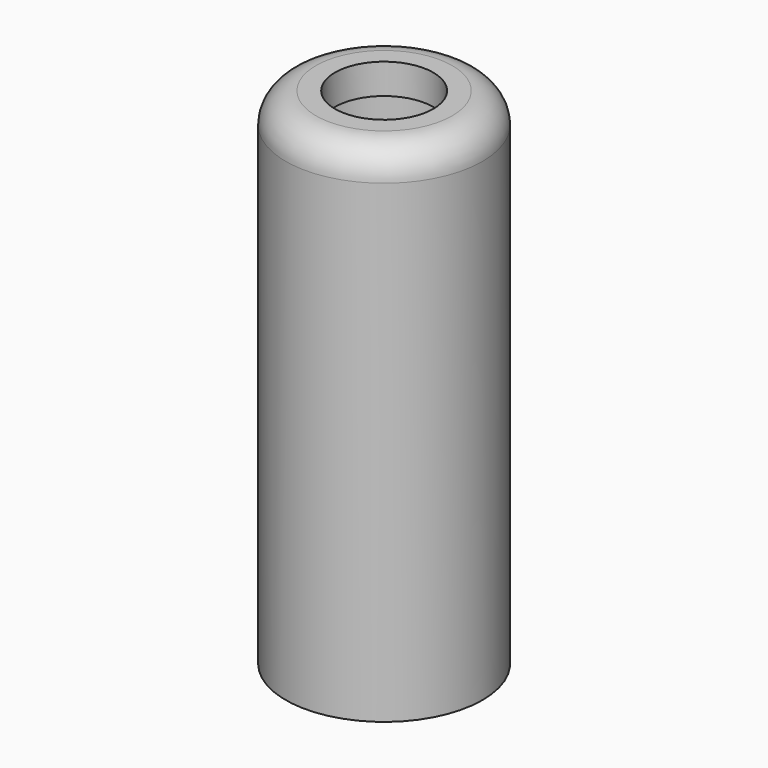
from build123d import *

# Parameters (mm, degrees)
F0_R     = 3.9
F0_R_2   = 2.7
F1_DEPTH = 20
F2_R     = 2.7
F2_R_2   = 1.95
F3_DEPTH = 1.2
F4_R     = 1.2
F5_R     = 3
F6_DEPTH = 0.8


with BuildPart() as f1:
    # F0 (on Top) → F1 (new body)
    with BuildSketch(Plane.XY):
        Circle(F0_R)
        Circle(F0_R_2, mode=Mode.SUBTRACT)
    extrude(amount=F1_DEPTH)

    # F2 (on face) → F3 (join)
    with BuildSketch(Plane.XY.offset(20)):
        Circle(F2_R)
        Circle(F2_R_2, mode=Mode.SUBTRACT)
    extrude(amount=-F3_DEPTH)

    # F4
    f4_edges = [f1.edges().sort_by_distance(p)[0] for p in [
        (-3.9, 0, 20),
    ]]
    fillet(f4_edges, radius=F4_R)

    # F5 (on face) → F6 (cut)
    with BuildSketch(Plane(origin=(0, 0, 0), x_dir=(1, 0, 0), z_dir=(0, 0, -1))):
        Circle(F5_R)
    extrude(amount=-F6_DEPTH, mode=Mode.SUBTRACT)


solid = f1.part
